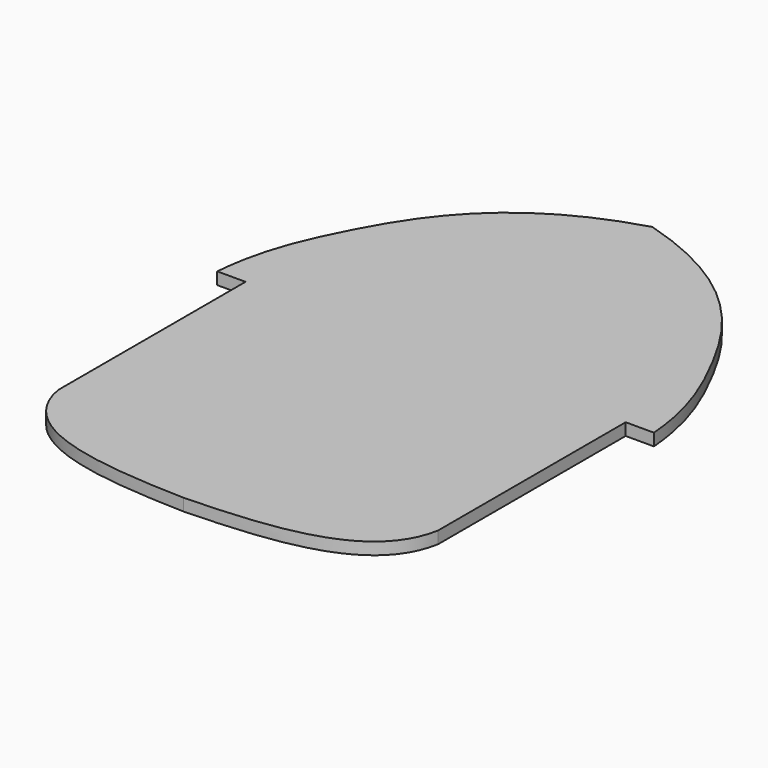
from build123d import *

# Parameters (mm, degrees)
F1_DEPTH = 3


with BuildPart() as f1:
    # F0 (on Top) → F1 (new body)
    with BuildSketch(Plane.XY):
        with BuildLine():
            add(Edge.make_bspline(
                [(0, 72.5), (-27.0170327276, 64.600892365), (-45.0763583617, 37.331105209), (-53.0780882863, 16.7854940657), (-54, 5.5)],
                knots=[0, 0, 0, 0, 0.5759292514, 1, 1, 1, 1], degree=3))
            Line((-54, 5.5), (-46.9999999926, 5.5))
            Line((-46.9999999926, 5.5), (0, 5.5))
            Line((0, 5.5), (0, 72.5))
        make_face()
        with BuildLine():
            Line((0, 5.5), (-46.9999999926, 5.5))
            Line((-46.9999999926, 5.5), (-46.9999999926, -52.5))
            add(Edge.make_bspline(
                [(-46.9999999926, -52.5), (-43.8243448734, -69.7996020317), (-21.9121724367, -71.8249005079), (0, -72.5)],
                knots=[0, 0, 0, 0, 0.5, 0.5, 0.5, 0.5], degree=3))
            Line((0, -72.5), (0, 5.5))
        make_face()
    extrude(amount=F1_DEPTH)

    # F2: F1 across face


with BuildPart() as f1_1:
    add(f1.part)
    add(f1.part.mirror(Plane(origin=(0, 0, 1.5), x_dir=(0, 1, 0), z_dir=(1, 0, 0))))


solid = f1_1.part
